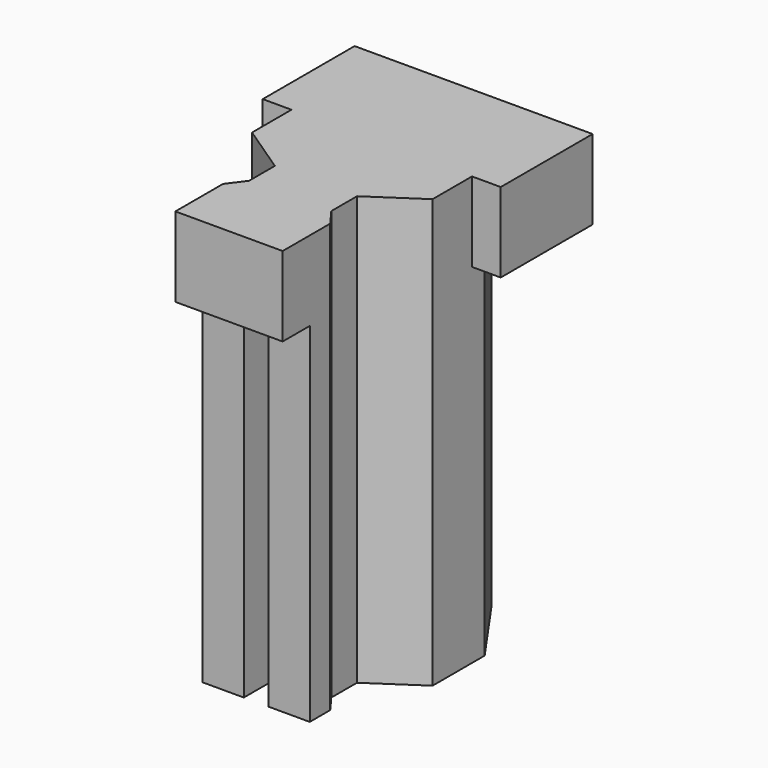
from build123d import *

# Parameters (mm, degrees)
F1_DEPTH = 42.45
F3_W     = 13.0613458827
F3_H     = 7.237181995
F4_DEPTH = 9.7


with BuildPart() as f1:
    # F0 (on Top) → F1 (new body)
    with BuildSketch(Plane.XY):
        Polygon((5, 0), (0, 0), (0, -24.6), (1.5, -24.6), (1.5, -29.6), (6.5306729414, -29.6), (6.5306729414, -26.4880058984), (5, -24.4090993645), (5, -20.4990993645), (10.9908135316, -16.48406431), (10.9908135316, -8.5557684039), align=None)
    extrude(amount=F1_DEPTH)

    # F2: F1 across face


with BuildPart() as f1_1:
    add(f1.part)
    add(f1.part.mirror(Plane(origin=(0, -12.3, 21.225), x_dir=(0, -1, 0), z_dir=(-1, 0, 0))))

    # F3 (on face) → F4 (join)
    with BuildSketch(Plane.XY.offset(42.45)):
        Polygon((10.9908135316, -10.48406431), (14.4908135316, -10.48406431), (14.4908135316, 3.5), (-14.4908135316, 3.5), (-14.4908135316, -10.48406431), (-10.9908135316, -10.48406431), (-10.9908135316, -16.48406431), (10.9908135316, -16.48406431), align=None)
        Polygon((5, -20.4990993645), (10.9908135316, -16.48406431), (-10.9908135316, -16.48406431), (-5, -20.4990993645), (-5, -24.4090993645), (-6.5306729414, -26.4880058984), (6.5306729414, -26.4880058984), (6.3694567187, -26.2690476549), (5, -24.4090993645), align=None)
        with Locations((0, -30.106596896)):
            Rectangle(F3_W, F3_H)
    extrude(amount=F4_DEPTH)


solid = f1_1.part
